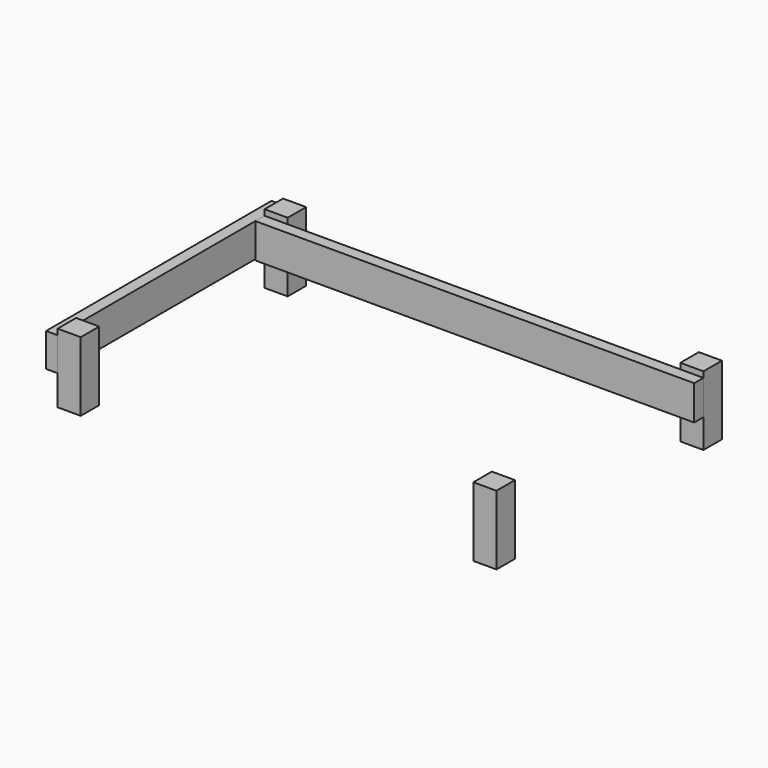
from build123d import *

# Parameters (mm, degrees)
F0_W     = 100
F0_H     = 50
F0_H_2   = 100
F1_DEPTH = 300
F2_W     = 100
F2_H     = 150
F2_W_2   = 1800
F3_DEPTH = 50
F4_W     = 100
F4_H     = 145
F4_W_2   = 1120
F5_DEPTH = 50


with BuildPart() as f1:
    # F0 (on Top) → F1 (new body)
    with BuildSketch(Plane.XY):
        with Locations((50, 1195)):
            Rectangle(F0_W, F0_H)
        with Locations((50, 1145)):
            Rectangle(F0_W, F0_H)
        with Locations((50, 50)):
            Rectangle(F0_W, F0_H_2)
        with Locations((1850, 1170)):
            Rectangle(F0_W, F0_H_2)
        with Locations((1850, 50)):
            Rectangle(F0_W, F0_H_2)
    extrude(amount=F1_DEPTH)


with BuildPart() as f3:
    # F2 (on face) → F3 (new body)
    with BuildSketch(Plane.XZ.offset(-1120)):
        with Locations((50, 200)):
            Rectangle(F2_W, F2_H)
        with Locations((1000, 200)):
            Rectangle(F2_W_2, F2_H)
    extrude(amount=F3_DEPTH)


with BuildPart() as f5:
    # F4 (on face) → F5 (new body)
    with BuildSketch(Plane(origin=(0, 0, 0), x_dir=(0, -1, 0), z_dir=(-1, 0, 0))):
        with Locations((-1170, 202.5)):
            Rectangle(F4_W, F4_H)
        with Locations((-560, 202.5)):
            Rectangle(F4_W_2, F4_H)
    extrude(amount=F5_DEPTH)


solid = Compound([f1.part, f3.part, f5.part])
